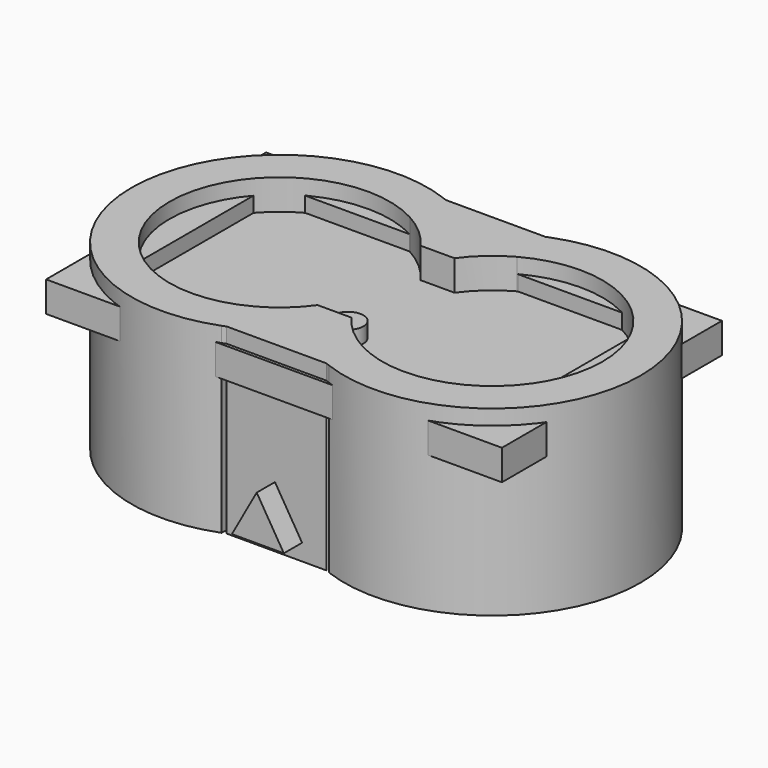
from build123d import *

# Parameters (mm, degrees)
F1_W      = 30
F1_H      = 18.1
F1_W_2    = 25
F1_H_2    = 13.1
F1_R      = 1
F2_DEPTH  = 1
F3_DEPTH  = 1
F5_DEPTH  = 2
F6_DEPTH  = 10
F8_DEPTH  = 1.5
F10_DEPTH = 1.5


with BuildPart() as f2:
    # F1 (on Top) → F2 (new body)
    with BuildSketch(Plane.XY):
        with Locations((12.5, 6.55)):
            Rectangle(F1_W, F1_H)
        with Locations((12.5, 6.55)):
            Rectangle(F1_W_2, F1_H_2, mode=Mode.SUBTRACT)
        with Locations((12.5, 6.55)):
            Rectangle(F1_W_2, F1_H_2)
        with Locations((12.5, 3.6)):
            Circle(F1_R, mode=Mode.SUBTRACT)
        with Locations((12.5, 3.6)):
            Circle(F1_R)
    extrude(amount=-F2_DEPTH)

    # F1 (on Top) → F3 (join)
    with BuildSketch(Plane.XY):
        with Locations((12.5, 6.55)):
            Rectangle(F1_W, F1_H)
        with Locations((12.5, 6.55)):
            Rectangle(F1_W_2, F1_H_2, mode=Mode.SUBTRACT)
        with Locations((12.5, 3.6)):
            Circle(F1_R)
    extrude(amount=F3_DEPTH)


with BuildPart() as f5:
    # F4 (on Top) → F5 (new body)
    with BuildSketch(Plane.XY):
        with BuildLine():
            ThreePointArc((15.7808901789, 15.731442944), (14.0261114122, 14.7870320036), (12.5, 13.5055701423))
            ThreePointArc((12.5, 13.5055701423), (10.9738885878, 14.7870320036), (9.2191098211, 15.731442944))
            ThreePointArc((9.2191098211, 15.731442944), (9.0935384384, 15.782241694), (8.9672734415, 15.831291013))
            Line((8.9672734415, 15.831291013), (8.9672734415, 13.0857775468))
            ThreePointArc((8.9672734415, 13.0857775468), (10.2959076895, 12.1557077715), (11.3845482155, 10.9535594624))
            Line((11.3845482155, 10.9535594624), (13.6154517845, 10.9535594624))
            ThreePointArc((13.6154517845, 10.9535594624), (14.7040923105, 12.1557077715), (16.0327265585, 13.0857775468))
            Line((16.0327265585, 13.0857775468), (16.0327265585, 15.831291013))
            ThreePointArc((16.0327265585, 15.831291013), (15.9064615616, 15.782241694), (15.7808901789, 15.731442944))
        make_face()
        with BuildLine():
            ThreePointArc((9.2191098211, 15.731442944), (10.9738885878, 14.7870320036), (12.5, 13.5055701423))
            ThreePointArc((12.5, 13.5055701423), (14.0261114122, 14.7870320036), (15.7808901789, 15.731442944))
            Line((15.7808901789, 15.731442944), (9.2191098211, 15.731442944))
        make_face()
        with BuildLine():
            Line((8.9672734415, 13.0857775468), (8.9672734415, 15.831291013))
            ThreePointArc((8.9672734415, 15.831291013), (-4.25, 6.7186341621), (8.9672734415, -2.3940226888))
            Line((8.9672734415, -2.3940226888), (8.9672734415, 0.3514907774))
            ThreePointArc((8.9672734415, 0.3514907774), (-1.75, 6.7186341621), (8.9672734415, 13.0857775468))
        make_face()
        with BuildLine():
            ThreePointArc((16.0327265585, -2.3940226888), (29.25, 6.7186341621), (16.0327265585, 15.831291013))
            Line((16.0327265585, 15.831291013), (16.0327265585, 13.0857775468))
            ThreePointArc((16.0327265585, 13.0857775468), (26.75, 6.7186341621), (16.0327265585, 0.3514907774))
            Line((16.0327265585, 0.3514907774), (16.0327265585, -2.3940226888))
        make_face()
        with BuildLine():
            Line((8.9672734415, 0.3514907774), (8.9672734415, -2.3940226888))
            ThreePointArc((8.9672734415, -2.3940226888), (9.0935384384, -2.3449733698), (9.2191098211, -2.2941746198))
            ThreePointArc((9.2191098211, -2.2941746198), (10.9738885878, -1.3497636794), (12.5, -0.0683018182))
            ThreePointArc((12.5, -0.0683018182), (14.0261114122, -1.3497636794), (15.7808901789, -2.2941746198))
            ThreePointArc((15.7808901789, -2.2941746198), (15.9064615616, -2.3449733698), (16.0327265585, -2.3940226888))
            Line((16.0327265585, -2.3940226888), (16.0327265585, 0.3514907774))
            ThreePointArc((16.0327265585, 0.3514907774), (14.7040923105, 1.2815605527), (13.6154517845, 2.4837088618))
            Line((13.6154517845, 2.4837088618), (11.3845482155, 2.4837088618))
            ThreePointArc((11.3845482155, 2.4837088618), (10.2959076895, 1.2815605527), (8.9672734415, 0.3514907774))
        make_face()
        with BuildLine():
            ThreePointArc((12.5, -0.0683018182), (10.9738885878, -1.3497636794), (9.2191098211, -2.2941746198))
            Line((9.2191098211, -2.2941746198), (15.7808901789, -2.2941746198))
            ThreePointArc((15.7808901789, -2.2941746198), (14.0261114122, -1.3497636794), (12.5, -0.0683018182))
        make_face()
    extrude(amount=F5_DEPTH)

    # F4 (on Top) → F6 (join)
    with BuildSketch(Plane.XY):
        with BuildLine():
            ThreePointArc((12.5, -0.0683018182), (10.9738885878, -1.3497636794), (9.2191098211, -2.2941746198))
            Line((9.2191098211, -2.2941746198), (15.7808901789, -2.2941746198))
            ThreePointArc((15.7808901789, -2.2941746198), (14.0261114122, -1.3497636794), (12.5, -0.0683018182))
        make_face()
        with BuildLine():
            Line((8.9672734415, 13.0857775468), (8.9672734415, 15.831291013))
            ThreePointArc((8.9672734415, 15.831291013), (-4.25, 6.7186341621), (8.9672734415, -2.3940226888))
            Line((8.9672734415, -2.3940226888), (8.9672734415, 0.3514907774))
            ThreePointArc((8.9672734415, 0.3514907774), (-1.75, 6.7186341621), (8.9672734415, 13.0857775468))
        make_face()
        with BuildLine():
            ThreePointArc((16.0327265585, -2.3940226888), (29.25, 6.7186341621), (16.0327265585, 15.831291013))
            Line((16.0327265585, 15.831291013), (16.0327265585, 13.0857775468))
            ThreePointArc((16.0327265585, 13.0857775468), (26.75, 6.7186341621), (16.0327265585, 0.3514907774))
            Line((16.0327265585, 0.3514907774), (16.0327265585, -2.3940226888))
        make_face()
        with BuildLine():
            ThreePointArc((9.2191098211, 15.731442944), (10.9738885878, 14.7870320036), (12.5, 13.5055701423))
            ThreePointArc((12.5, 13.5055701423), (14.0261114122, 14.7870320036), (15.7808901789, 15.731442944))
            Line((15.7808901789, 15.731442944), (9.2191098211, 15.731442944))
        make_face()
    extrude(amount=-F6_DEPTH)

    # F7 (on face) → F8 (join)
    with BuildSketch(Plane.XZ.offset(2.2941746198)):
        Polygon((14.1835333779, -8.917665109), (12.3988762498, -5.9804166667), (10.7629401609, -8.917665109), align=None)
    extrude(amount=F8_DEPTH)

    # F9 (on face) → F10 (join)
    with BuildSketch(Plane(origin=(0, 15.731442944, 0), x_dir=(-1, 0, 0), z_dir=(0, 1, 0))):
        Polygon((-14.1104983749, -7.061145734), (-14.4434154477, -9.9699152634), (-10.2635258223, -9.9699152634), (-11.082963733, -7.061145734), align=None)
    extrude(amount=F10_DEPTH)


solid = Compound([f2.part, f5.part])
